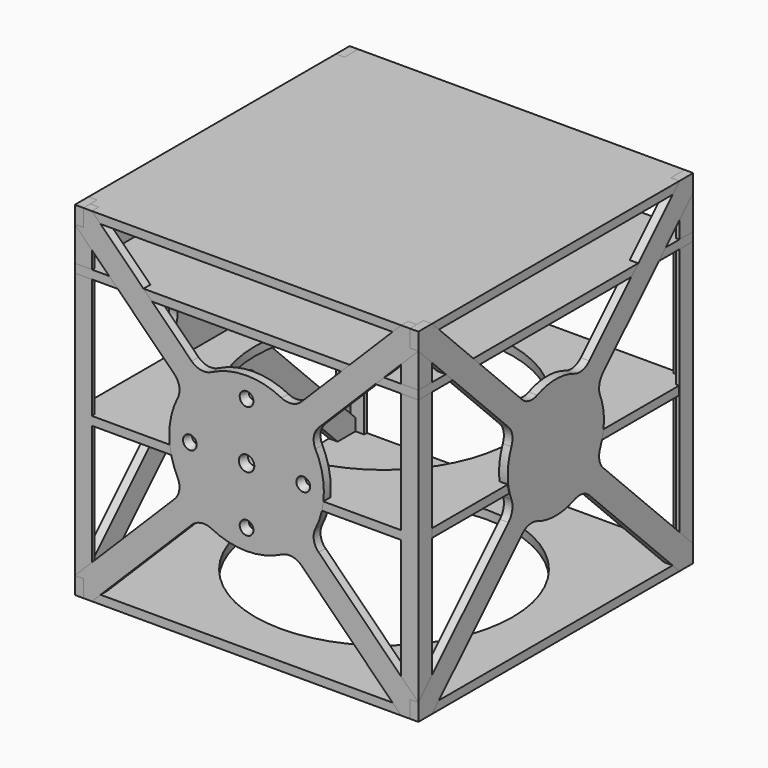
from build123d import *

# Parameters (mm, degrees)
F0_W      = 1000
F0_H      = 1000
F1_DEPTH  = 25
F3_DEPTH  = 950
F5_W      = 998.6482446112
F5_H      = 1000
F6_DEPTH  = 25
F8_W      = 1000
F8_H      = 1000
F9_DEPTH  = 25
F10_W     = 1000
F10_H     = 1000
F11_DEPTH = 25
F12_R     = 375
F13_DEPTH = 592
F15_DEPTH = 25
F16_R     = 22.5
F16_R_2   = 20
F17_DEPTH = 25
F17_TAPER = 15
F19_DEPTH = 25


with BuildPart() as f1:
    # F0 (on Top) → F1 (new body)
    with BuildSketch(Plane.XY):
        with Locations((500, -500)):
            Rectangle(F0_W, F0_H)
    extrude(amount=F1_DEPTH)

    # F2 (on face) → F3 (join)
    with BuildSketch(Plane.XY.offset(25)):
        Polygon((0, -950), (0, -1000), (50, -1000), (50, -990), (10, -990), (10, -950), align=None)
        Polygon((50, -10), (50, 0), (0, 0), (0, -50), (10, -50), (10, -10), align=None)
        Polygon((990, -990), (950, -990), (950, -1000), (1000, -1000), (1000, -950), (990, -950), align=None)
        Polygon((1000, -50), (1000, 0), (950, 0), (950, -10), (990, -10), (990, -50), align=None)
    extrude(amount=F3_DEPTH)

    # F5 (on offset) → F6 (join)
    with BuildSketch(Plane.XY.offset(450)):
        with Locations((499.3241223056, -500)):
            Rectangle(F5_W, F5_H)
    extrude(amount=F6_DEPTH)

    # F10 (on face) → F11 (join)
    with BuildSketch(Plane.XY.offset(975)):
        with Locations((500, -500)):
            Rectangle(F10_W, F10_H)
    extrude(amount=F11_DEPTH)

    # F12 (on face) → F13 (cut)
    with BuildSketch(Plane(origin=(0, 0, 0), x_dir=(1, 0, 0), z_dir=(0, 0, -1))):
        with Locations((500, 500)):
            Circle(F12_R)
    extrude(amount=-F13_DEPTH, mode=Mode.SUBTRACT)


with BuildPart() as f9:
    # F8 (on offset) → F9 (new body)
    with BuildSketch(Plane.XY.offset(850)):
        with Locations((500, -500)):
            Rectangle(F8_W, F8_H)
    extrude(amount=-F9_DEPTH)


with BuildPart() as f15:
    # F14 (on face) → F15 (new body)
    with BuildSketch(Plane.XZ.offset(1000)):
        with BuildLine():
            Line((950, 0), (1000, 0))
            Line((1000, 0), (1000, 50))
            Line((1000, 50), (709.8505695069, 340.1494304931))
            ThreePointArc((709.8505695069, 340.1494304931), (695.8271229848, 367.647573201), (700.6230160997, 398.1402659974))
            ThreePointArc((700.6230160997, 398.1402659974), (725, 500), (700.6230160997, 601.8597340026))
            ThreePointArc((700.6230160997, 601.8597340026), (695.8271229848, 632.352426799), (709.8505695069, 659.8505695069))
            Line((709.8505695069, 659.8505695069), (1000, 950))
            Line((1000, 950), (1000, 1000))
            Line((1000, 1000), (950, 1000))
            Line((950, 1000), (659.8505695069, 709.8505695069))
            ThreePointArc((659.8505695069, 709.8505695069), (632.352426799, 695.8271229848), (601.8597340026, 700.6230160997))
            ThreePointArc((601.8597340026, 700.6230160997), (500, 725), (398.1402659974, 700.6230160997))
            ThreePointArc((398.1402659974, 700.6230160997), (367.647573201, 695.8271229848), (340.1494304931, 709.8505695069))
            Line((340.1494304931, 709.8505695069), (50, 1000))
            Line((50, 1000), (0, 1000))
            Line((0, 1000), (0, 950))
            Line((0, 950), (290.1494304931, 659.8505695069))
            ThreePointArc((290.1494304931, 659.8505695069), (304.1728770152, 632.352426799), (299.3769839003, 601.8597340026))
            ThreePointArc((299.3769839003, 601.8597340026), (275, 500), (299.3769839003, 398.1402659974))
            ThreePointArc((299.3769839003, 398.1402659974), (304.1728770152, 367.647573201), (290.1494304931, 340.1494304931))
            Line((290.1494304931, 340.1494304931), (0, 50))
            Line((0, 50), (0, 0))
            Line((0, 0), (50, 0))
            Line((50, 0), (340.1494304931, 290.1494304931))
            ThreePointArc((340.1494304931, 290.1494304931), (367.647573201, 304.1728770152), (398.1402659974, 299.3769839003))
            ThreePointArc((398.1402659974, 299.3769839003), (500, 275), (601.8597340026, 299.3769839003))
            ThreePointArc((601.8597340026, 299.3769839003), (632.352426799, 304.1728770152), (659.8505695069, 290.1494304931))
            Line((659.8505695069, 290.1494304931), (950, 0))
        make_face()
    extrude(amount=-F15_DEPTH)

    # F16 (on face) → F17 (cut)
    with BuildSketch(Plane.XZ.offset(1000)):
        with Locations((500, 500)):
            Circle(F16_R)
        with Locations((500, 665)):
            Circle(F16_R_2)
        with Locations((335, 500)):
            Circle(F16_R_2)
        with Locations((500, 335)):
            Circle(F16_R_2)
        with Locations((665, 500)):
            Circle(F16_R_2)
    extrude(amount=-F17_DEPTH, taper=F17_TAPER, mode=Mode.SUBTRACT)


with BuildPart() as f19:
    # F18 (on face) → F19 (new body)
    with BuildSketch(Plane.YZ.offset(1000)):
        with BuildLine():
            Line((-950, 1000), (-1000, 1000))
            Line((-1000, 1000), (-1000, 950))
            Line((-1000, 950), (-672.2064300465, 622.2064300465))
            ThreePointArc((-672.2064300465, 622.2064300465), (-658.5050372176, 596.5173755083), (-661.4369315268, 567.5508485456))
            ThreePointArc((-661.4369315268, 567.5508485456), (-675, 500), (-661.4369315268, 432.4491514544))
            ThreePointArc((-661.4369315268, 432.4491514544), (-658.5050372176, 403.4826244917), (-672.2064300465, 377.7935699535))
            Line((-672.2064300465, 377.7935699535), (-1000, 50))
            Line((-1000, 50), (-1000, 0))
            Line((-1000, 0), (-950, 0))
            Line((-950, 0), (-622.2064300465, 327.7935699535))
            ThreePointArc((-622.2064300465, 327.7935699535), (-596.5173755083, 341.4949627824), (-567.5508485456, 338.5630684732))
            ThreePointArc((-567.5508485456, 338.5630684732), (-500, 325), (-432.4491514544, 338.5630684732))
            ThreePointArc((-432.4491514544, 338.5630684732), (-403.4826244917, 341.4949627824), (-377.7935699535, 327.7935699535))
            Line((-377.7935699535, 327.7935699535), (-50, 0))
            Line((-50, 0), (0, 0))
            Line((0, 0), (0, 50))
            Line((0, 50), (-327.7935699535, 377.7935699535))
            ThreePointArc((-327.7935699535, 377.7935699535), (-341.4949627824, 403.4826244917), (-338.5630684732, 432.4491514544))
            ThreePointArc((-338.5630684732, 432.4491514544), (-325, 500), (-338.5630684732, 567.5508485456))
            ThreePointArc((-338.5630684732, 567.5508485456), (-341.4949627824, 596.5173755083), (-327.7935699535, 622.2064300465))
            Line((-327.7935699535, 622.2064300465), (0, 950))
            Line((0, 950), (0, 1000))
            Line((0, 1000), (-50, 1000))
            Line((-50, 1000), (-377.7935699535, 672.2064300465))
            ThreePointArc((-377.7935699535, 672.2064300465), (-403.4826244917, 658.5050372176), (-432.4491514544, 661.4369315268))
            ThreePointArc((-432.4491514544, 661.4369315268), (-500, 675), (-567.5508485456, 661.4369315268))
            ThreePointArc((-567.5508485456, 661.4369315268), (-596.5173755083, 658.5050372176), (-622.2064300465, 672.2064300465))
            Line((-622.2064300465, 672.2064300465), (-950, 1000))
        make_face()
    extrude(amount=-F19_DEPTH)


with BuildPart() as f21_1:
    # F21: instance of F19
    add(f19.part.mirror(Plane.YZ.offset(500)))


solid = Compound([f1.part, f9.part, f15.part, f19.part, f21_1.part])
